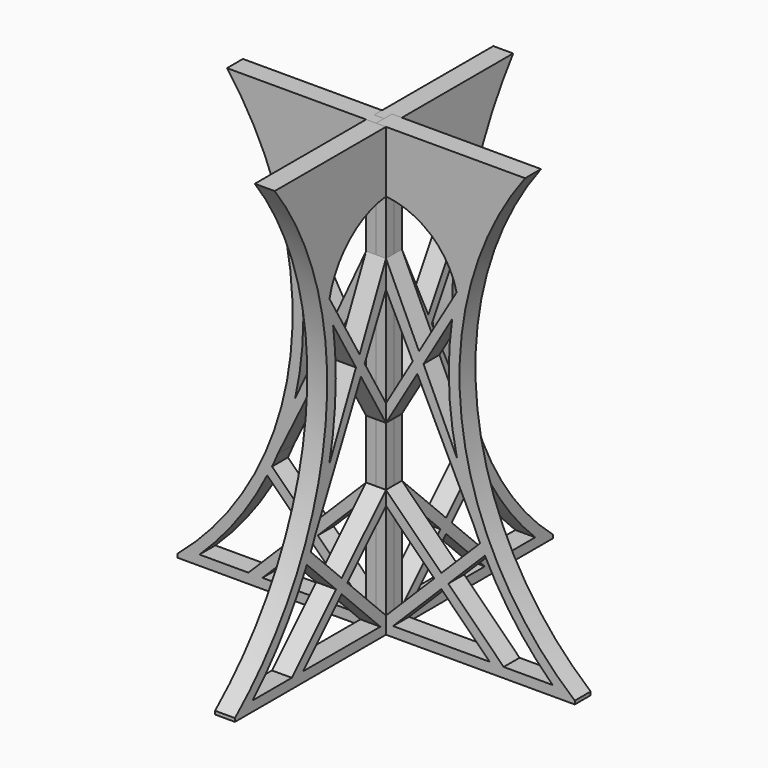
from build123d import *

# Parameters (mm, degrees)
F1_DEPTH      = 2
F1_DEPTH_BACK = 2
F3_COUNT      = 4
F3_ANGLE      = 270


with BuildPart() as f1:
    # F0 (on Right) → F1 (new body, two sides)
    with BuildSketch(Plane.YZ) as f1_sk:
        with BuildLine():
            Line((0, 90), (-30, 90))
            ThreePointArc((-30, 90), (-17.2003120889, 43.34622274), (-40, 0.6779537991))
            Line((-40, 0.6779537991), (-40, 0))
            Line((-40, 0), (0, 0))
            Line((0, 0), (0, 90))
        make_face()
        with BuildLine():
            Line((-25.6897339369, 2), (-35.5405993869, 2))
            ThreePointArc((-35.5405993869, 2), (-27.9289763311, 10.6618536146), (-21.9068518005, 20.4953946717))
            Line((-21.9068518005, 20.4953946717), (-21.8519743302, 20.4404804133))
            Line((-21.8519743302, 20.4404804133), (-14.5493300697, 13.1329406819))
            Line((-14.5493300697, 13.1329406819), (-25.6897339369, 2))
        make_face(mode=Mode.SUBTRACT)
        Polygon((-3.4238475733, 2), (-22.8603586075, 2), (-13.1355904508, 11.7182533349), align=None, mode=Mode.SUBTRACT)
        Polygon((-1.9745562923, 22.8718104875), (-1.9745562923, 3.3791124875), (-11.7209031037, 13.1319929538), align=None, mode=Mode.SUBTRACT)
        with BuildLine():
            Line((-1.9745562923, 37.4926312388), (-1.9745562923, 25.6992903602))
            Line((-1.9745562923, 25.6992903602), (-13.1346427227, 14.5466803009))
            Line((-13.1346427227, 14.5466803009), (-20.9282729392, 22.3455351303))
            ThreePointArc((-20.9282729392, 22.3455351303), (-20.3453851508, 23.632571528), (-19.7896299206, 24.9315545868))
            Line((-19.7896299206, 24.9315545868), (-8.3078608006, 48.3061735457))
            Line((-8.3078608006, 48.3061735457), (-1.9745562923, 37.4926312388))
        make_face(mode=Mode.SUBTRACT)
        with BuildLine():
            Line((-9.5506499406, 50.4281231419), (-16.2889807749, 35.9393174747))
            ThreePointArc((-16.2889807749, 35.9393174747), (-14.6908021923, 48.0546804964), (-15.3086415999, 60.2593710044))
            Line((-15.3086415999, 60.2593710044), (-9.5506499406, 50.4281231419))
        make_face(mode=Mode.SUBTRACT)
        Polygon((-7.3761877959, 50.2028761577), (-1.9745562923, 61.1995332785), (-1.9745562923, 40.9800808991), align=None, mode=Mode.SUBTRACT)
        with BuildLine():
            ThreePointArc((-16.2167135536, 65.2972710617), (-11.0865479634, 73.7769381454), (-1.9745562923, 77.6750095428))
            Line((-1.9745562923, 77.6750095428), (-1.9745562923, 66.7182922191))
            Line((-1.9745562923, 66.7182922191), (-8.6466072489, 52.3720020041))
            Line((-8.6466072489, 52.3720020041), (-16.2167135536, 65.2972710617))
        make_face(mode=Mode.SUBTRACT)
    extrude(amount=F1_DEPTH)
    extrude(f1_sk.sketch, amount=-F1_DEPTH_BACK)


with BuildPart() as f3_1:
    # F3: instance of F1
    add(f1.part.rotate(Axis((0, 0, 26.2590656057), (0, 0, -1)), 1 * F3_ANGLE / (F3_COUNT - 1)))


with BuildPart() as f3_2:
    # F3: instance of F1
    add(f1.part.rotate(Axis((0, 0, 26.2590656057), (0, 0, -1)), 2 * F3_ANGLE / (F3_COUNT - 1)))


with BuildPart() as f3_3:
    # F3: instance of F1
    add(f1.part.rotate(Axis((0, 0, 26.2590656057), (0, 0, -1)), 3 * F3_ANGLE / (F3_COUNT - 1)))


solid = Compound([f1.part, f3_1.part, f3_2.part, f3_3.part])
